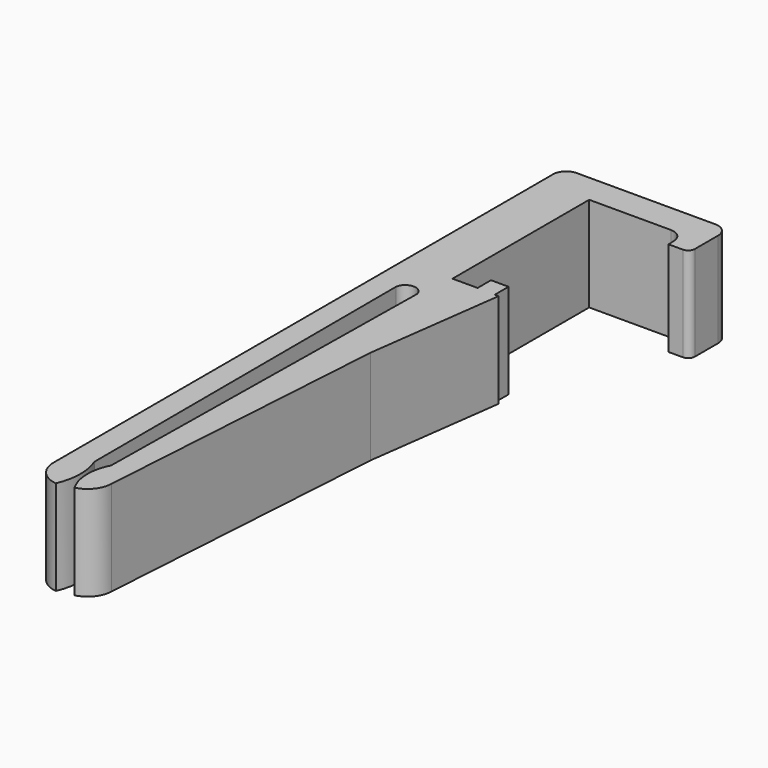
from build123d import *

# Parameters (mm, degrees)
PAD_DEPTH   = 7
FILLET_R    = 0.5
FILLET001_R = 1
FILLET002_R = 1


with BuildPart() as part:
    # Sketch → Pad (new body)
    with BuildSketch(Plane.XY):
        with BuildLine():
            Line((1.140353, 38.211909), (6.608476, 38.211909))
            Line((12.389766, 38.211909), (6.608476, 38.211909))
            Line((12.389766, 34.571056), (12.389766, 38.211909))
            Line((10.843417, 34.571056), (12.389766, 34.571056))
            Line((10.781564, 36.055546), (10.843417, 34.571056))
            Line((3.792074, 36.055546), (10.781564, 36.055546))
            Line((3.792074, 23.437357), (3.792074, 36.055546))
            Line((3.792074, 23.437357), (5.64769, 23.437357))
            Line((5.64769, 23.437357), (5.64769, 24.674435))
            Line((5.64769, 24.674435), (6.946622, 24.674435))
            Line((6.946622, 24.674435), (6.946622, 23.394299))
            Line((6.946622, 23.394299), (7.230929, 23.394299))
            Line((7.230929, 23.394299), (5.878444, 13.2727))
            Line((4.444027, -8.845778), (5.878444, 13.2727))
            ThreePointArc((3.074544, -10.551747), (4.049152, -9.931456), (4.444027, -8.845778))
            ThreePointArc((2.99206, -7.068146), (2.588113, -8.820488), (3.074544, -10.551747))
            Line((3.393693, 20.659941), (2.99206, -7.068146))
            ThreePointArc((3.393693, 20.659941), (2.620383, 21.285237), (1.880762, 20.620434))
            Line((1.880762, 20.620434), (1.952176, -7.313535))
            ThreePointArc((1.895787, -10.802761), (2.277294, -9.063858), (1.952176, -7.313535))
            ThreePointArc((0.177781, -8.839589), (0.658741, -10.152007), (1.895787, -10.802761))
            Line((0.178586, 37.250143), (0.177781, -8.839589))
            ThreePointArc((1.140353, 38.211909), (0.460281, 37.930214), (0.178586, 37.250143))
        make_face()
    extrude(amount=PAD_DEPTH)

    # Fillet
    fillet_edges = [part.edges().sort_by_distance(p)[0] for p in [
        (12.389766, 34.571056, 3.5),
    ]]
    fillet(fillet_edges, radius=FILLET_R)

    # Fillet001
    fillet001_edges = [part.edges().sort_by_distance(p)[0] for p in [
        (12.389766, 38.211909, 3.5),
    ]]
    fillet(fillet001_edges, radius=FILLET001_R)

    # Fillet002
    fillet002_edges = [part.edges().sort_by_distance(p)[0] for p in [
        (10.781564, 36.055546, 3.5),
    ]]
    fillet(fillet002_edges, radius=FILLET002_R)


solid = part.part
